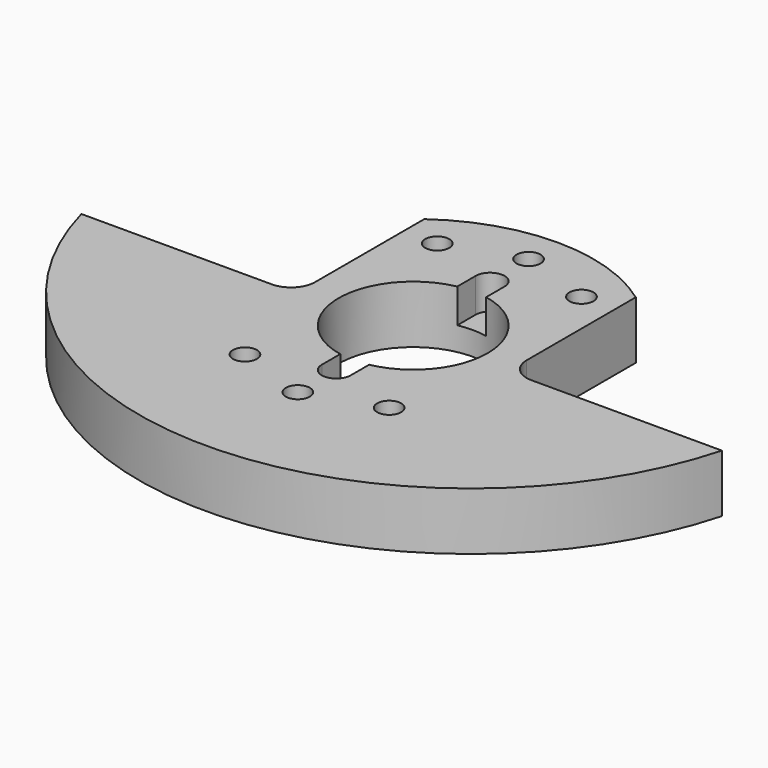
from build123d import *

# Parameters (mm, degrees)
F2_R     = 2.5
F2_R_2   = 15.5
F3_DEPTH = 12
F5_DEPTH = 7.1


with BuildPart() as f3:
    # F2 (on offset) → F3 (new body)
    with BuildSketch(Plane.XY.offset(-19)):
        with BuildLine():
            ThreePointArc((-22, 2), (-23.464466, -1.535534), (-27, -3))
            Line((-27, -3), (-66.61081, -3))
            ThreePointArc((-66.61081, -3), (0, -54), (66.61081, -3))
            Line((66.61081, -3), (27, -3))
            ThreePointArc((27, -3), (23.464466, -1.535534), (22, 2))
            Line((22, 2), (22, 30.368569))
            ThreePointArc((22, 30.368569), (0, 37.5), (-22, 30.368569))
            Line((-22, 30.368569), (-22, 2))
        make_face()
        with Locations((-15, -25)):
            Circle(F2_R, mode=Mode.SUBTRACT)
        with Locations((0, -30)):
            Circle(F2_R, mode=Mode.SUBTRACT)
        with Locations((15, -25)):
            Circle(F2_R, mode=Mode.SUBTRACT)
        with Locations((-15, 25)):
            Circle(F2_R, mode=Mode.SUBTRACT)
        Circle(F2_R_2, mode=Mode.SUBTRACT)
        with Locations((15, 25)):
            Circle(F2_R, mode=Mode.SUBTRACT)
        with Locations((0, 30)):
            Circle(F2_R, mode=Mode.SUBTRACT)
    extrude(amount=-F3_DEPTH)

    # F4 (on offset) → F5 (cut)
    with BuildSketch(Plane.XY.offset(-19)):
        with BuildLine():
            ThreePointArc((3, 20), (0, 23), (-3, 20))
            Line((-3, 20), (-3, 0))
            Line((-3, 0), (-3, -20))
            ThreePointArc((-3, -20), (0, -23), (3, -20))
            Line((3, -20), (3, 0))
            Line((3, 0), (3, 20))
        make_face()
    extrude(amount=-F5_DEPTH, mode=Mode.SUBTRACT)


solid = f3.part
